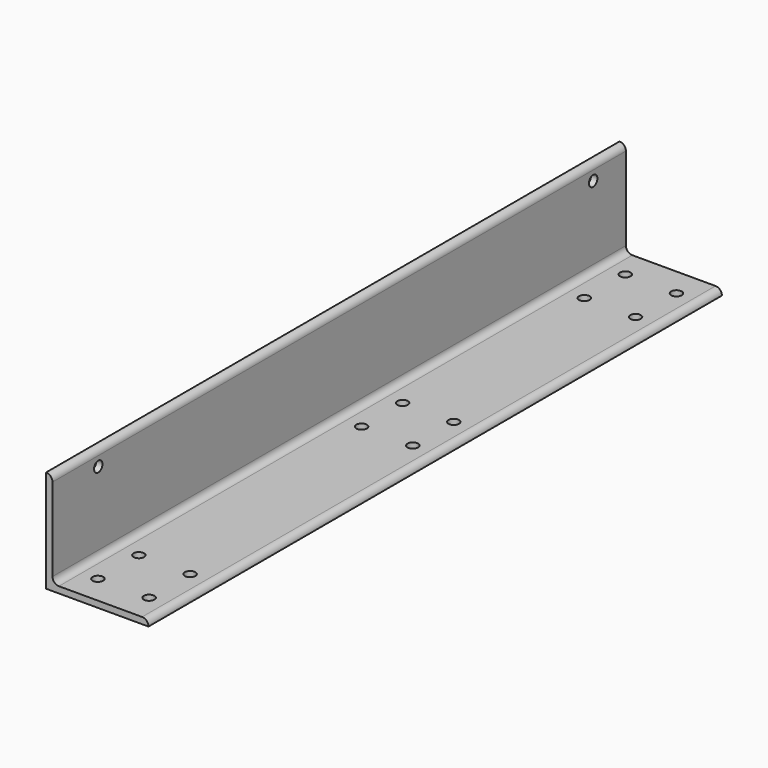
from build123d import *

# Parameters (mm, degrees)
F1_DEPTH = 355.6
F2_R     = 2.6162
F3_DEPTH = 3.176
F4_R     = 2.6162
F5_DEPTH = 50.801


with BuildPart() as f1:
    # F0 (on Front) → F1 (new body)
    with BuildSketch(Plane.XZ):
        with BuildLine():
            Line((-50.8, 0), (0, 0))
            ThreePointArc((0, 0), (-0.929936, 2.245064), (-3.175, 3.175))
            Line((-3.175, 3.175), (-44.45, 3.175))
            ThreePointArc((-44.45, 3.175), (-46.695064, 4.104936), (-47.625, 6.35))
            Line((-47.625, 6.35), (-47.625, 47.625))
            ThreePointArc((-47.625, 47.625), (-48.554936, 49.870064), (-50.8, 50.8))
            Line((-50.8, 50.8), (-50.8, 0))
        make_face()
    extrude(amount=F1_DEPTH)

    # F2 (on face) → F3 (cut, through all)
    with BuildSketch(Plane.XY.offset(3.175)):
        with Locations((-36.5125, -341.3125)):
            Circle(F2_R)
        with Locations((-36.5125, -14.2875)):
            Circle(F2_R)
        with Locations((-36.5125, -177.8)):
            Circle(F2_R)
        with Locations((-11.1125, -152.4)):
            Circle(F2_R)
        with Locations((-11.1125, -177.8)):
            Circle(F2_R)
        with Locations((-36.5125, -152.4)):
            Circle(F2_R)
        with Locations((-11.1125, -14.2875)):
            Circle(F2_R)
        with Locations((-11.1125, -341.3125)):
            Circle(F2_R)
        with Locations((-36.5125, -39.6875)):
            Circle(F2_R)
        with Locations((-11.1125, -39.6875)):
            Circle(F2_R)
        with Locations((-36.5125, -315.9125)):
            Circle(F2_R)
        with Locations((-11.1125, -315.9125)):
            Circle(F2_R)
    extrude(amount=-F3_DEPTH, mode=Mode.SUBTRACT)

    # F4 (on face) → F5 (cut, through all)
    with BuildSketch(Plane(origin=(-50.8, 0, 0), x_dir=(0, -1, 0), z_dir=(-1, 0, 0))):
        with Locations((20.32, 42.8625)):
            Circle(F4_R)
        with Locations((327.2028, 42.8625)):
            Circle(F4_R)
    extrude(amount=-F5_DEPTH, mode=Mode.SUBTRACT)


solid = f1.part
